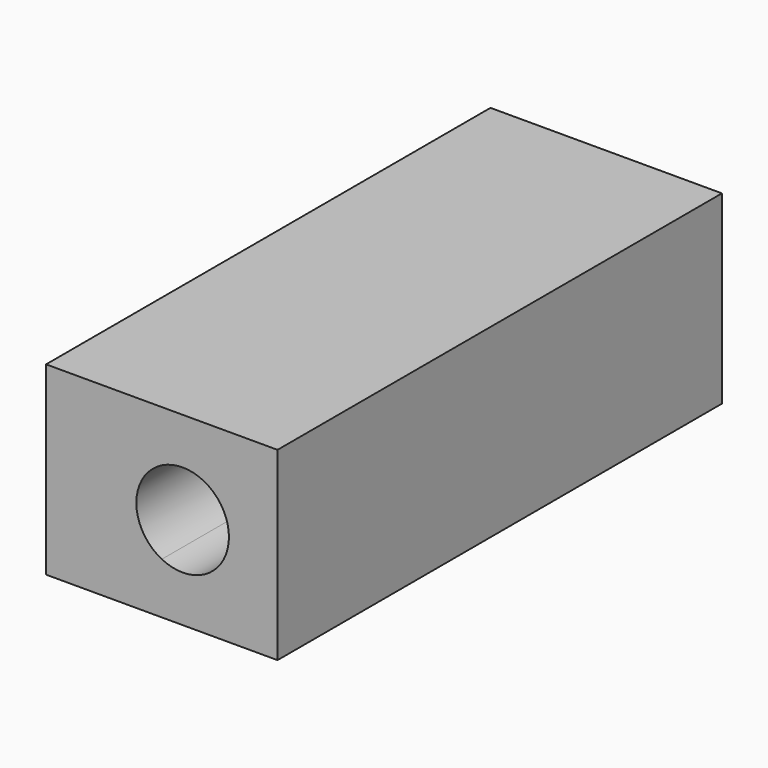
from build123d import *

# Parameters (mm, degrees)
F0_W          = 250
F0_H          = 200
F0_W_2        = 165
F0_H_2        = 160
F1_DEPTH      = 300
F1_DEPTH_BACK = 300
F2_DEPTH      = 200
F2_DEPTH_BACK = 200
F3_DEPTH      = 300.001
F4_DEPTH      = 300.001


with BuildPart() as f1:
    # F0 (on Front) → F1 (new body, two sides)
    with BuildSketch(Plane.XZ) as f1_sk:
        with Locations((22.5, 0)):
            Rectangle(F0_W, F0_H)
        with Locations((22.5, 0)):
            Rectangle(F0_W_2, F0_H_2, mode=Mode.SUBTRACT)
        with Locations((22.5, 0)):
            Rectangle(F0_W_2, F0_H_2)
        with BuildLine():
            ThreePointArc((22.5, -44.651428), (-50, 0), (22.5, 44.651428))
            ThreePointArc((22.5, 44.651428), (71.220221, 42.573466), (95, 0))
            ThreePointArc((95, 0), (71.220221, -42.573466), (22.5, -44.651428))
        make_face(mode=Mode.SUBTRACT)
        with BuildLine():
            ThreePointArc((22.5, -44.651428), (-5, 0), (22.5, 44.651428))
            ThreePointArc((22.5, 44.651428), (-50, 0), (22.5, -44.651428))
        make_face()
        with BuildLine():
            ThreePointArc((22.5, -44.651428), (42.573466, -26.220221), (50, 0))
            ThreePointArc((50, 0), (42.573466, 26.220221), (22.5, 44.651428))
            ThreePointArc((22.5, 44.651428), (-5, 0), (22.5, -44.651428))
        make_face()
        with BuildLine():
            ThreePointArc((22.5, 44.651428), (42.573466, 26.220221), (50, 0))
            ThreePointArc((50, 0), (42.573466, -26.220221), (22.5, -44.651428))
            ThreePointArc((22.5, -44.651428), (71.220221, -42.573466), (95, 0))
            ThreePointArc((95, 0), (71.220221, 42.573466), (22.5, 44.651428))
        make_face()
    extrude(amount=F1_DEPTH)
    extrude(f1_sk.sketch, amount=-F1_DEPTH_BACK)

    # F0 (on Front) → F2 (cut, two sides)
    with BuildSketch(Plane.XZ) as f2_sk:
        with Locations((22.5, 0)):
            Rectangle(F0_W_2, F0_H_2)
        with BuildLine():
            ThreePointArc((22.5, -44.651428), (-50, 0), (22.5, 44.651428))
            ThreePointArc((22.5, 44.651428), (71.220221, 42.573466), (95, 0))
            ThreePointArc((95, 0), (71.220221, -42.573466), (22.5, -44.651428))
        make_face(mode=Mode.SUBTRACT)
        with BuildLine():
            ThreePointArc((22.5, -44.651428), (-5, 0), (22.5, 44.651428))
            ThreePointArc((22.5, 44.651428), (-50, 0), (22.5, -44.651428))
        make_face()
        with BuildLine():
            ThreePointArc((22.5, -44.651428), (42.573466, -26.220221), (50, 0))
            ThreePointArc((50, 0), (42.573466, 26.220221), (22.5, 44.651428))
            ThreePointArc((22.5, 44.651428), (-5, 0), (22.5, -44.651428))
        make_face()
        with BuildLine():
            ThreePointArc((22.5, 44.651428), (42.573466, 26.220221), (50, 0))
            ThreePointArc((50, 0), (42.573466, -26.220221), (22.5, -44.651428))
            ThreePointArc((22.5, -44.651428), (71.220221, -42.573466), (95, 0))
            ThreePointArc((95, 0), (71.220221, 42.573466), (22.5, 44.651428))
        make_face()
    extrude(amount=F2_DEPTH, mode=Mode.SUBTRACT)
    extrude(f2_sk.sketch, amount=-F2_DEPTH_BACK, mode=Mode.SUBTRACT)

    # F0 (on Front) → F3 (cut, through all)
    with BuildSketch(Plane.XZ):
        with BuildLine():
            ThreePointArc((22.5, -44.651428), (42.573466, -26.220221), (50, 0))
            ThreePointArc((50, 0), (42.573466, 26.220221), (22.5, 44.651428))
            ThreePointArc((22.5, 44.651428), (-5, 0), (22.5, -44.651428))
        make_face()
        with BuildLine():
            ThreePointArc((22.5, 44.651428), (42.573466, 26.220221), (50, 0))
            ThreePointArc((50, 0), (42.573466, -26.220221), (22.5, -44.651428))
            ThreePointArc((22.5, -44.651428), (71.220221, -42.573466), (95, 0))
            ThreePointArc((95, 0), (71.220221, 42.573466), (22.5, 44.651428))
        make_face()
    extrude(amount=F3_DEPTH, mode=Mode.SUBTRACT)

    # F0 (on Front) → F4 (cut, through all)
    with BuildSketch(Plane.XZ):
        with BuildLine():
            ThreePointArc((22.5, -44.651428), (-5, 0), (22.5, 44.651428))
            ThreePointArc((22.5, 44.651428), (-50, 0), (22.5, -44.651428))
        make_face()
        with BuildLine():
            ThreePointArc((22.5, -44.651428), (42.573466, -26.220221), (50, 0))
            ThreePointArc((50, 0), (42.573466, 26.220221), (22.5, 44.651428))
            ThreePointArc((22.5, 44.651428), (-5, 0), (22.5, -44.651428))
        make_face()
    extrude(amount=-F4_DEPTH, mode=Mode.SUBTRACT)


solid = f1.part
